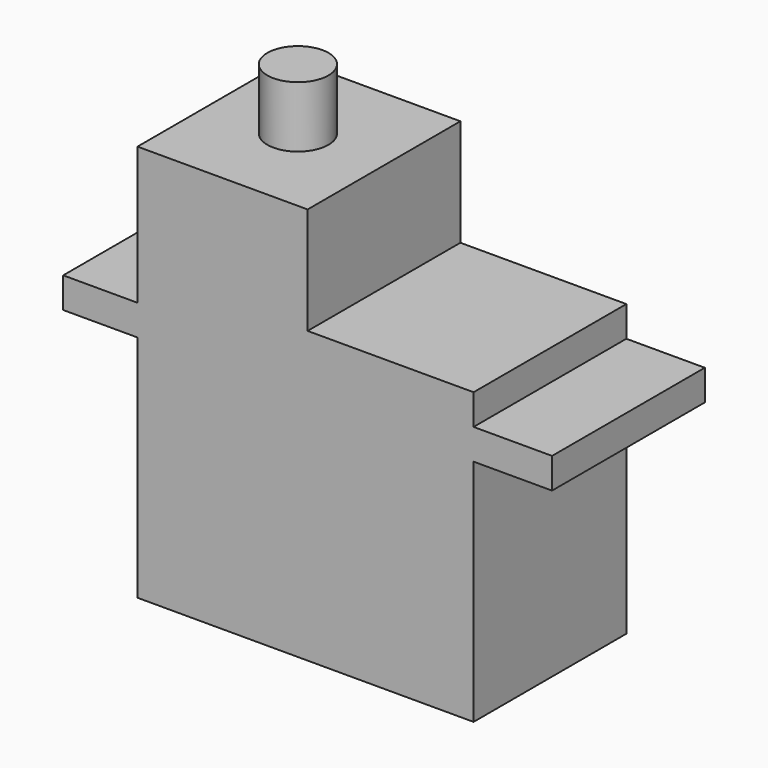
from build123d import *

# Parameters (mm, degrees)
F0_W     = 11.1358017506
F0_H     = 15
F0_W_2   = 10.8641982494
F0_H_2   = 2
F0_W_3   = 4.8641982494
F0_W_4   = 5.1358017506
F0_H_3   = 7
F1_DEPTH = 6.25
F2_R     = 2
F3_DEPTH = 11


with BuildPart() as f1:
    # F0 (on Front) → F1 (new body, symmetric)
    with BuildSketch(Plane.XZ):
        with Locations((-5.5679008753, 7.5)):
            Rectangle(F0_W, F0_H)
        with Locations((5.4320991247, 16)):
            Rectangle(F0_W_2, F0_H_2)
        with Locations((-5.5679008753, 16)):
            Rectangle(F0_W, F0_H_2)
        with Locations((-13.5679008753, 16)):
            Rectangle(F0_W_3, F0_H_2)
        with Locations((5.4320991247, 7.5)):
            Rectangle(F0_W_2, F0_H)
        with Locations((13.4320991247, 16)):
            Rectangle(F0_W_4, F0_H_2)
        with Locations((5.4320991247, 18)):
            Rectangle(F0_W_2, F0_H_2)
        with Locations((-5.5679008753, 22.5)):
            Rectangle(F0_W, F0_H_3)
        with Locations((-5.5679008753, 18)):
            Rectangle(F0_W, F0_H_2)
    extrude(amount=F1_DEPTH, both=True)

    # F2 (on face) → F3 (join)
    with BuildSketch(Plane.XY.offset(19)):
        with Locations((-5.6358017506, 0)):
            Circle(F2_R)
    extrude(amount=F3_DEPTH)


solid = f1.part
